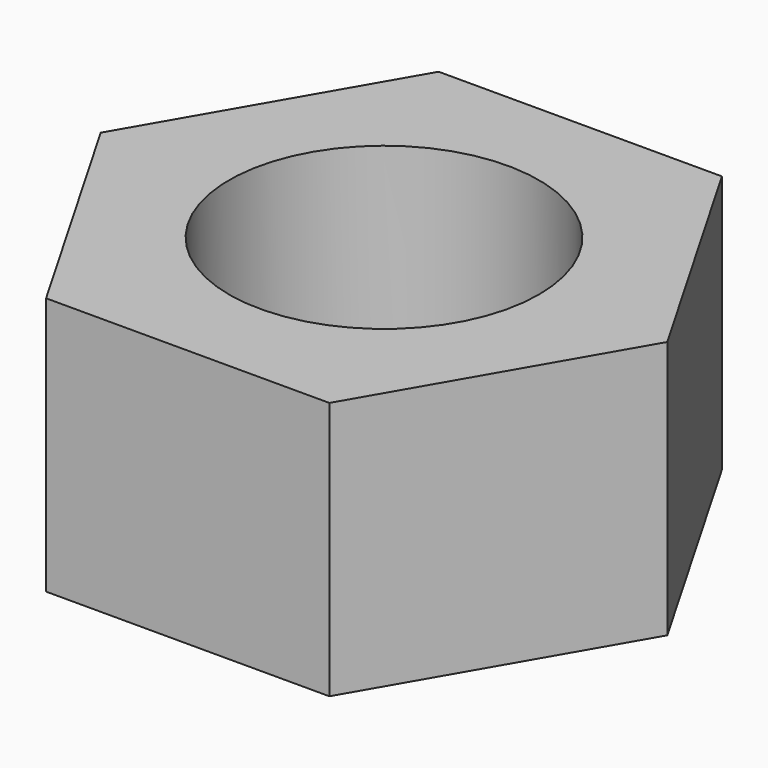
from build123d import *

# Parameters (mm, degrees)
F1_DEPTH = 10
F2_R     = 6
F3_DEPTH = 25


with BuildPart() as f1:
    # F0 (on Top) → F1 (new body)
    with BuildSketch(Plane.XY):
        Polygon((10.969655, 0), (5.484828, 9.5), (-5.484828, 9.5), (-10.969655, 0), (-5.484828, -9.5), (5.484828, -9.5), align=None)
    extrude(amount=F1_DEPTH)

    # F2 (on face) → F3 (cut)
    with BuildSketch(Plane.XY.offset(10)):
        Circle(F2_R)
    extrude(amount=-F3_DEPTH, mode=Mode.SUBTRACT)


solid = f1.part
